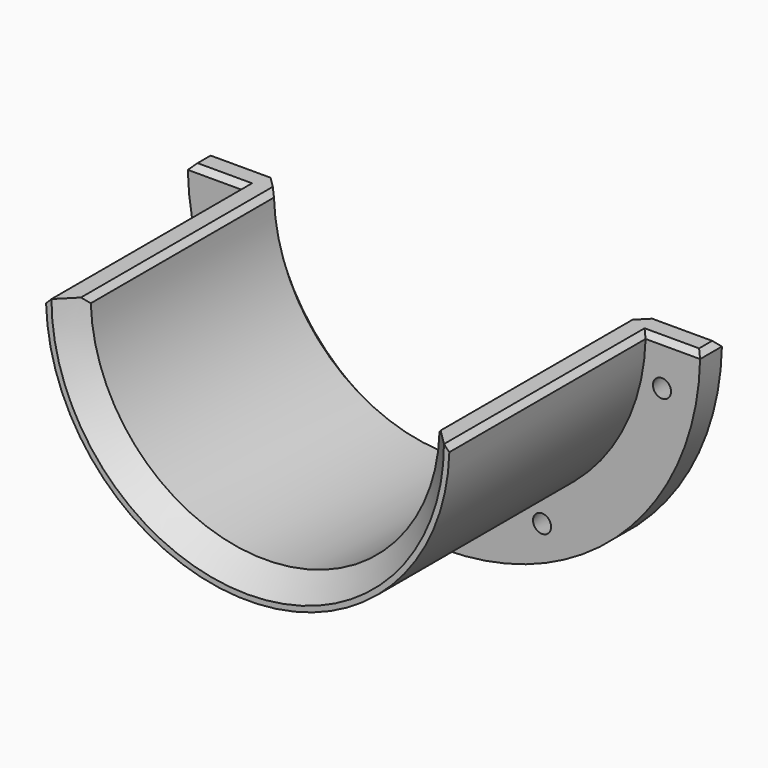
from build123d import *

# Parameters (mm, degrees)
PAD_DEPTH       = 50
PAD001_DEPTH    = 5
SKETCH003_R     = 3
POCKET_DEPTH    = 5
POCKET_TAPER    = 15
CHAMFER_SIZE    = 4
CHAMFER001_SIZE = 4
CHAMFER002_SIZE = 1


with BuildPart() as part:
    # Sketch → Pad (new body)
    with BuildSketch(Plane.XZ):
        with BuildLine():
            ThreePointArc((-37, 0), (0, -37), (37, 0))
            Line((32, 0), (37, 0))
            ThreePointArc((-32, 0), (0, -32), (32, 0))
            Line((-37, 0), (-32, 0))
        make_face()
    extrude(amount=PAD_DEPTH)

    # Sketch002 (on Face5 of Pad) → Pad001 (join)
    with BuildSketch(Plane(origin=(0, 0, 0), x_dir=(1, 0, 0), z_dir=(0, 1, 0))):
        with BuildLine():
            ThreePointArc((47, 0), (0, 47), (-47, 0))
            Line((-47, 0), (-37, 0))
            ThreePointArc((37, 0), (0, 37), (-37, 0))
            Line((37, 0), (47, 0))
        make_face()
    extrude(amount=-PAD001_DEPTH)

    # Sketch003 (on Face8 of Pad001) → Pocket (cut)
    with BuildSketch(Plane(origin=(0, 0, 0), x_dir=(1, 0, 0), z_dir=(0, 1, 0))):
        with Locations((-40, 8)):
            Circle(SKETCH003_R)
        with Locations((-18, 37)):
            Circle(SKETCH003_R)
        with Locations((18, 37)):
            Circle(SKETCH003_R)
        with Locations((40, 8)):
            Circle(SKETCH003_R)
    extrude(amount=-POCKET_DEPTH, taper=POCKET_TAPER, mode=Mode.SUBTRACT)

    # Chamfer
    chamfer_edges = [part.edges().sort_by_distance(p)[0] for p in [
        (0, -50, -32),
    ]]
    chamfer(chamfer_edges, length=CHAMFER_SIZE)

    # Chamfer001
    chamfer001_edges = [part.edges().sort_by_distance(p)[0] for p in [
        (0, 0, -32),
    ]]
    chamfer(chamfer001_edges, length=CHAMFER001_SIZE)

    # Chamfer002
    chamfer002_edges = [part.edges().sort_by_distance(p)[0] for p in [
        (-42, -5, 0),
        (-41.5, 0, 0),
        (-47, -2.5, 0),
        (-37, -27.5, 0),
        (-32, -25, 0),
        (42, -5, 0),
        (47, -2.5, 0),
        (41.5, 0, 0),
        (37, -27.5, 0),
        (32, -25, 0),
    ]]
    chamfer(chamfer002_edges, length=CHAMFER002_SIZE)


solid = part.part
